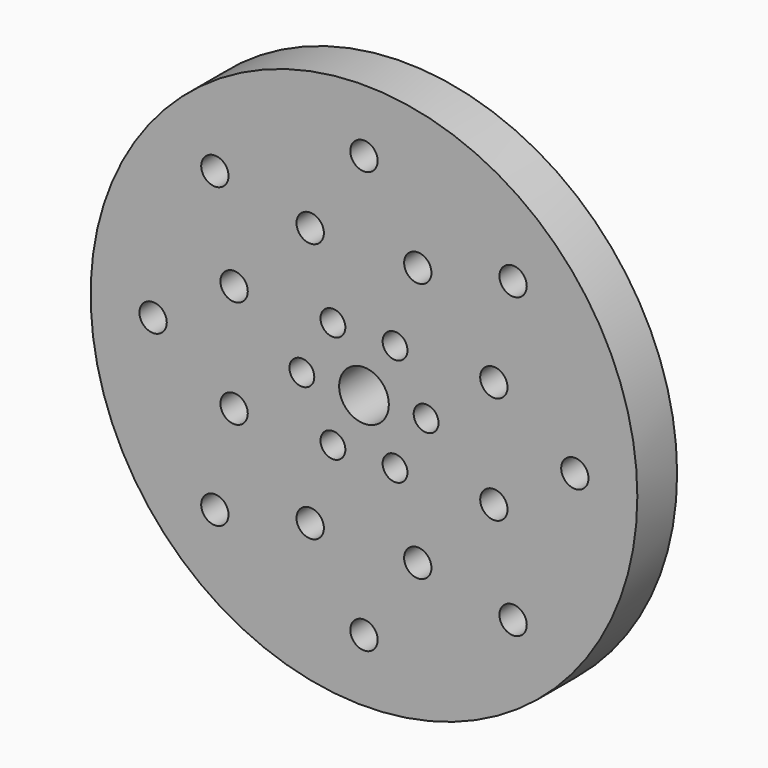
from build123d import *

# Parameters (mm, degrees)
F0_R     = 110
F1_DEPTH = 20
F2_R     = 5.5
F2_R_2   = 10
F3_DEPTH = 25
F4_R     = 5
F5_DEPTH = 25


with BuildPart() as f1:
    # F0 (on Front) → F1 (new body)
    with BuildSketch(Plane.XZ):
        Circle(F0_R)
    extrude(amount=F1_DEPTH)

    # F2 (on face) → F3 (cut)
    with BuildSketch(Plane.XZ.offset(20)):
        with Locations((84.852814, 0)):
            Circle(F2_R)
        with Locations((60, 60)):
            Circle(F2_R)
        with Locations((0, 84.852814)):
            Circle(F2_R)
        with Locations((-60, 60)):
            Circle(F2_R)
        with Locations((-84.852814, 0)):
            Circle(F2_R)
        with Locations((-60, -60)):
            Circle(F2_R)
        with Locations((0, -84.852814)):
            Circle(F2_R)
        with Locations((60, -60)):
            Circle(F2_R)
        Circle(F2_R_2)
        with Locations((52.262519, 21.647844)):
            Circle(F2_R)
        with Locations((52.262519, -21.647844)):
            Circle(F2_R)
        with Locations((21.647844, -52.262519)):
            Circle(F2_R)
        with Locations((-21.647844, -52.262519)):
            Circle(F2_R)
        with Locations((-52.262519, -21.647844)):
            Circle(F2_R)
        with Locations((-52.262519, 21.647844)):
            Circle(F2_R)
        with Locations((-21.647844, 52.262519)):
            Circle(F2_R)
        with Locations((21.647844, 52.262519)):
            Circle(F2_R)
    extrude(amount=-F3_DEPTH, mode=Mode.SUBTRACT)

    # F4 (on face) → F5 (cut)
    with BuildSketch(Plane.XZ.offset(20)):
        with Locations((25, 0)):
            Circle(F4_R)
        with Locations((12.5, 21.650635)):
            Circle(F4_R)
        with Locations((-12.5, 21.650635)):
            Circle(F4_R)
        with Locations((-25, 0)):
            Circle(F4_R)
        with Locations((-12.5, -21.650635)):
            Circle(F4_R)
        with Locations((12.5, -21.650635)):
            Circle(F4_R)
    extrude(amount=-F5_DEPTH, mode=Mode.SUBTRACT)


solid = f1.part
